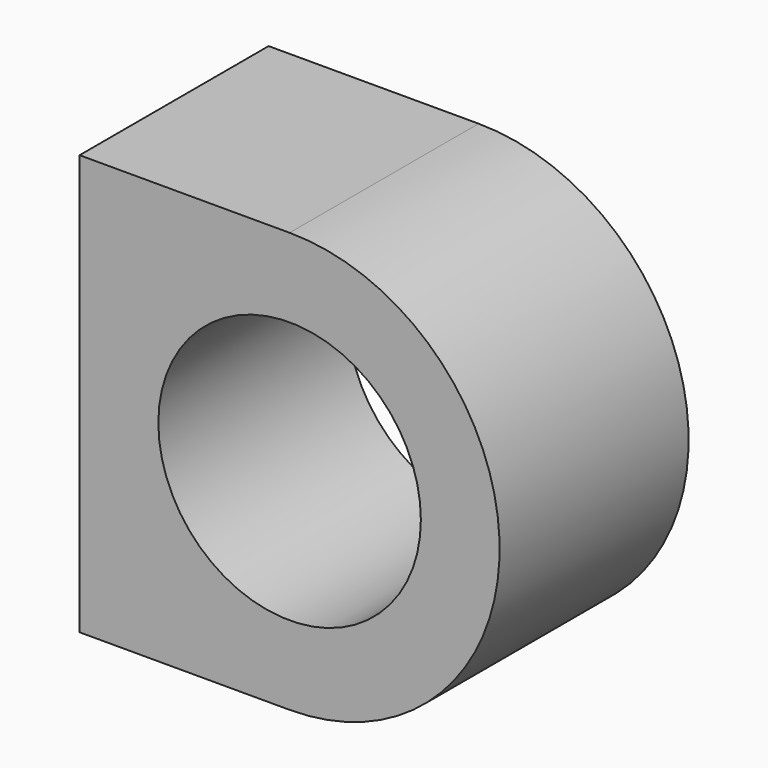
from build123d import *

# Parameters (mm, degrees)
CYLINDER020_R          = 5
CYLINDER020_DEPTH      = 9
CYLINDER020_ROLL_ANGLE = 90
BOX029_W               = 8
BOX029_H               = 9
BOX029_DEPTH           = 16
CYLINDER019_R          = 8
CYLINDER019_DEPTH      = 9
CYLINDER019_ROLL_ANGLE = 90


with BuildPart() as zylinder006:
    # Cylinder020 → Cylinder020 (new body)
    with BuildSketch(Plane.XY):
        Circle(CYLINDER020_R)
    extrude(amount=CYLINDER020_DEPTH)


with BuildPart() as zylinder006_1:
    # Cylinder020 roll: moved
    add(zylinder006.part.rotate(Axis((0, 0, 0), (1, 0, 0)), CYLINDER020_ROLL_ANGLE))


with BuildPart() as zylinder006_2:
    # Cylinder020 placement: moved
    add(zylinder006_1.part.moved(Location((8, 9, 8))))


with BuildPart() as obj1:
    # Box029 → Box029 (new body)
    with BuildSketch(Plane.XY):
        with Locations((4, 4.5)):
            Rectangle(BOX029_W, BOX029_H)
    extrude(amount=BOX029_DEPTH)


with BuildPart() as obj2:
    # Cylinder019 → Cylinder019 (new body)
    with BuildSketch(Plane.XY):
        Circle(CYLINDER019_R)
    extrude(amount=CYLINDER019_DEPTH)


with BuildPart() as obj2_1:
    # Cylinder019 roll: moved
    add(obj2.part.rotate(Axis((0, 0, 0), (1, 0, 0)), CYLINDER019_ROLL_ANGLE))


with BuildPart() as obj2_2:
    # Cylinder019 placement: moved
    add(obj2_1.part.moved(Location((8, 9, 8))))

    # Fusion014: union obj1
    add(obj1.part)

    # Cut019: cut Zylinder006
    add(zylinder006_2.part, mode=Mode.SUBTRACT)


with BuildPart() as obj2_3:
    # Cut019 placement: moved
    add(obj2_2.part.moved(Location((160, 44, 20))))


solid = obj2_3.part
